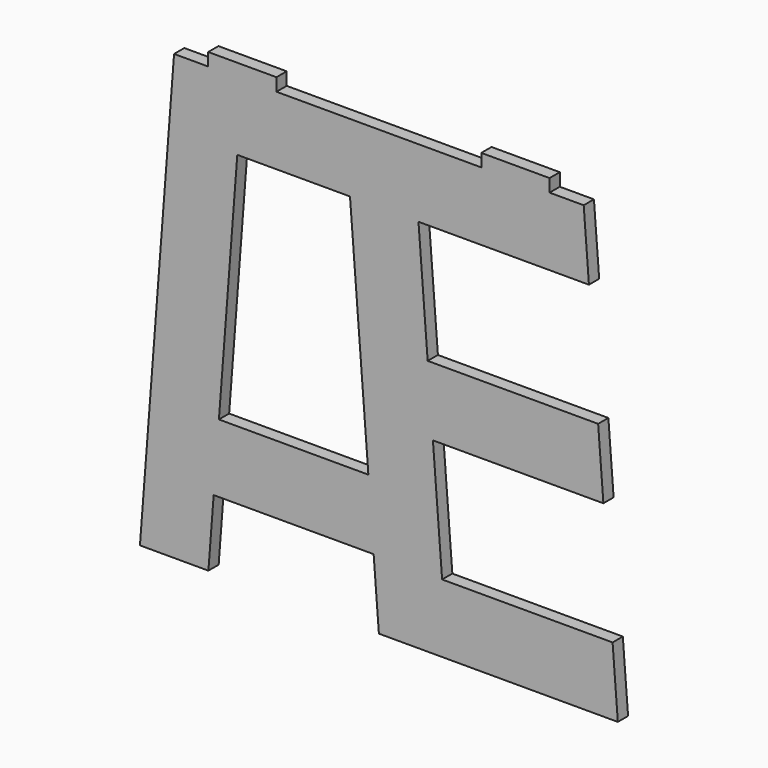
from build123d import *

# Parameters (mm, degrees)
F1_DEPTH = 19.05
F2_W     = 101.6
F2_H     = 19.05
F3_DEPTH = 19.05


with BuildPart() as f1:
    # F0 (on Front) → F1 (new body)
    with BuildSketch(Plane.XZ):
        Polygon((304.8, 660.4), (51.1001483644, 660.4), (58.9155329798, 558.8), (312.6153846154, 558.8), align=None)
        Polygon((94.084763749, 101.6), (101.9001483644, 0), (355.6, 0), (347.7846153846, 101.6), align=None)
        Polygon((-238.0690824048, 203.2), (-245.8844670202, 101.6), (-7.8153846154, 101.6), (-15.6307692308, 203.2), align=None)
        Polygon((326.2923076923, 381), (72.5924560567, 381), (80.4078406721, 279.4), (334.1076923077, 279.4), align=None)
        Polygon((-202.8998516356, 660.4), (-304.8, 660.4), (-355.6, 0), (-253.6998516356, 0), (-245.8844670202, 101.6), (-238.0690824048, 203.2), (-210.715236251, 558.8), align=None)
        Polygon((51.1001483644, 660.4), (-50.8, 660.4), (-42.9846153846, 558.8), (-15.6307692308, 203.2), (-7.8153846154, 101.6), (0, 0), (101.9001483644, 0), (94.084763749, 101.6), (80.4078406721, 279.4), (72.5924560567, 381), (58.9155329798, 558.8), align=None)
        Polygon((-50.8, 660.4), (-202.8998516356, 660.4), (-210.715236251, 558.8), (-42.9846153846, 558.8), align=None)
    extrude(amount=F1_DEPTH)

    # F2 (on face) → F3 (join, through all)
    with BuildSketch(Plane.XZ.offset(19.05)):
        with Locations((203.2, 669.925)):
            Rectangle(F2_W, F2_H)
        with Locations((-203.2, 669.925)):
            Rectangle(F2_W, F2_H)
    extrude(amount=-F3_DEPTH)


solid = f1.part
